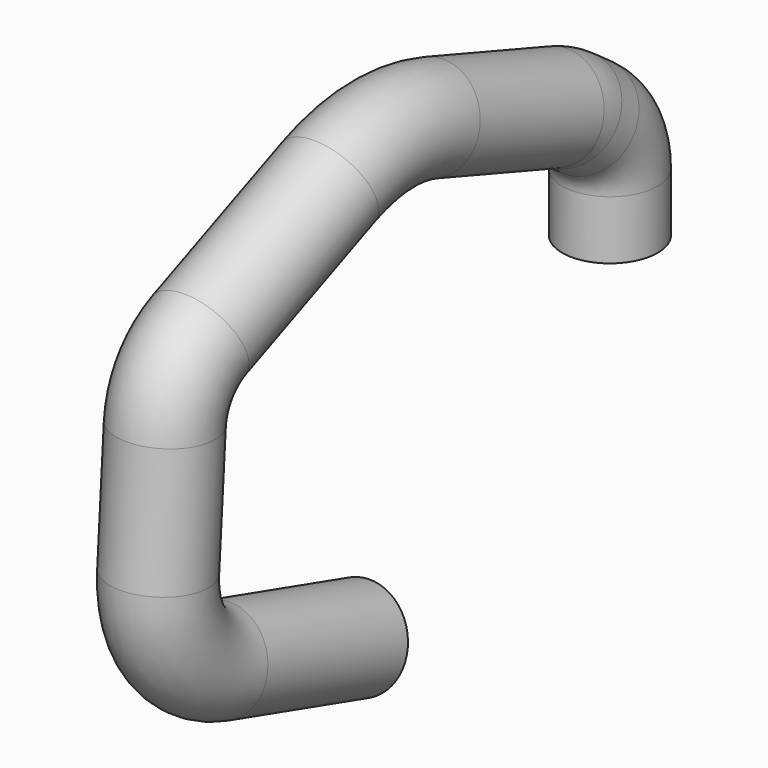
from build123d import *

# Parameters (mm, degrees)
F0_R = 34.2479621902


with BuildPart() as f2:
    # F2: sweep along a path in F1
    with BuildLine(Plane.YZ) as f2_path:
        Line((0, 0), (0, 42.1044450237))
        ThreePointArc((0, 42.1044450237), (-5.6069266237, 65.3041458582), (-21.1900046775, 83.3826254221))
        Line((-21.1900046775, 83.3826254221), (-36.5290609103, 94.3857602241))
        ThreePointArc((-36.5290609103, 94.3857602241), (-42.763778711, 98.2100897423), (-49.4830708618, 101.0994348776))
        Line((-49.4830708618, 101.0994348776), (-160.7226986152, 139.7061028327))
        ThreePointArc((-160.7226986152, 139.7061028327), (-206.7855450766, 146.6494265049), (-252.25333688, 136.5165356896))
        Line((-252.25333688, 136.5165356896), (-368.6925900292, 86.7757238812))
        ThreePointArc((-368.6925900292, 86.7757238812), (-390.1894627935, 69.4242484731), (-399.4271314968, 43.3886053197))
        Line((-399.4271314968, 43.3886053197), (-405.4229263948, -47.9120732419))
        ThreePointArc((-405.4229263948, -47.9120732419), (-391.8386577153, -96.5654209485), (-350.8094442607, -126.0320841785))
        Line((-350.8094442607, -126.0320841785), (-225.1088500457, -162.8565612302))
    # F0 (on Top) → F2 (sweep)
    with BuildSketch(Plane.XY):
        Circle(F0_R)
    sweep(path=f2_path.line)


solid = f2.part
